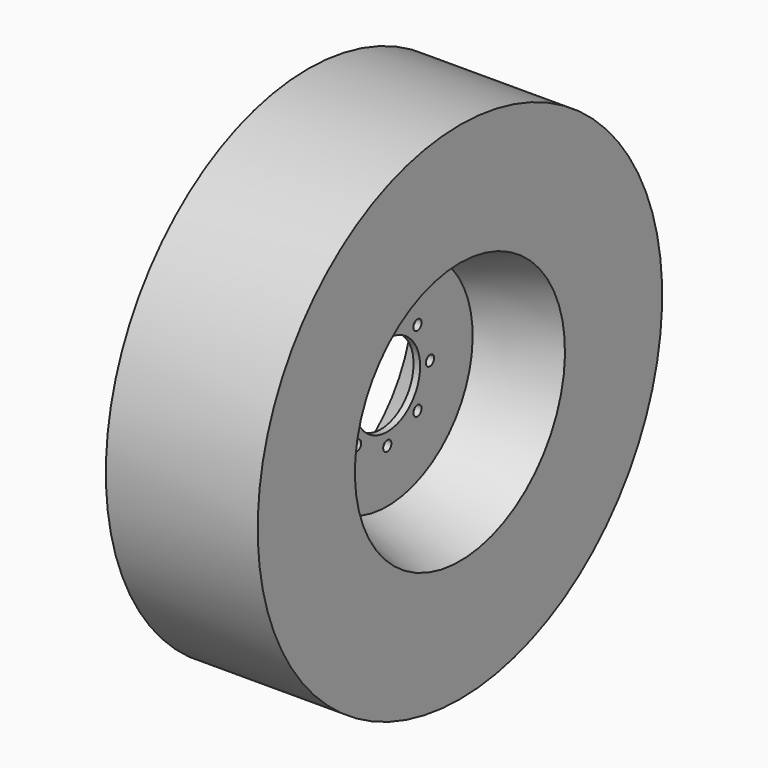
from build123d import *

# Parameters (mm, degrees)
F2_R     = 7.9375
F3_DEPTH = 122.581


with BuildPart() as f1:
    # F0 (on Front) → F1 (revolve)
    with BuildSketch(Plane.XZ):
        Polygon((-5.08, 165.1), (-5.08, 63.5), (5.08, 63.5), (5.08, 165.1), (117.5, 203.2), (117.5, 391.2), (-117.5, 391.2), (-117.5, 203.2), align=None)
    revolve(axis=Axis((10.536201, 0, 0), (1, 0, 0)))

    # F2 (on face) → F3 (cut, through all)
    with BuildSketch(Plane(origin=(-5.08, 0, 0), x_dir=(0, -1, 0), z_dir=(-1, 0, 0))):
        with Locations((0, 82.55)):
            Circle(F2_R)
        with Locations((58.371665, 58.371665)):
            Circle(F2_R)
        with Locations((82.55, 0)):
            Circle(F2_R)
        with Locations((58.371665, -58.371665)):
            Circle(F2_R)
        with Locations((0, -82.55)):
            Circle(F2_R)
        with Locations((-58.371665, -58.371665)):
            Circle(F2_R)
        with Locations((-82.55, 0)):
            Circle(F2_R)
        with Locations((-58.371665, 58.371665)):
            Circle(F2_R)
    extrude(amount=-F3_DEPTH, mode=Mode.SUBTRACT)


solid = f1.part
